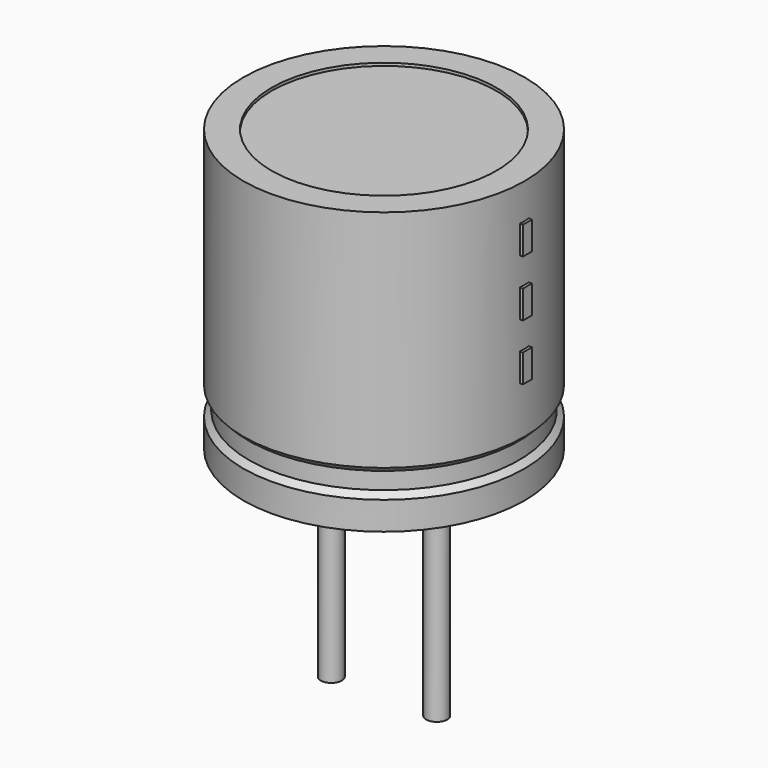
from build123d import *

# Parameters (mm, degrees)
SKETCH002_W  = 1.84
SKETCH002_H  = 3.92
SKETCH003_R  = 0.15
PAD_DEPTH    = 3.4
SKETCH004_W  = 0.16
SKETCH004_H  = 0.4
PAD001_DEPTH = 2.04


with BuildPart() as revolution:
    # Sketch → Revolution (revolve)
    with BuildSketch(Plane.XZ):
        Polygon((-1.25, 0.1), (-1.25, 0.5), (-1.17, 0.58), (-1.17, 0.82), (-1.25, 0.9), (-1.25, 4.1), (-0.85, 4.1), (-0.85, 0.1), align=None)
    revolve(axis=Axis((0.75, 0, 7.548619), (0, 0, -1)))


with BuildPart() as revolution001:
    # Sketch002 → Revolution001 (revolve)
    with BuildSketch(Plane.XZ):
        with Locations((-0.17, 2.1)):
            Rectangle(SKETCH002_W, SKETCH002_H)
    revolve(axis=Axis((0.75, 0, 4.680116), (0, 0, -1)))


with BuildPart() as pad:
    # Sketch003 → Pad (new body)
    with BuildSketch(Plane.XY.offset(0.4)):
        Circle(SKETCH003_R)
        with Locations((1.5, 0)):
            Circle(SKETCH003_R)
    extrude(amount=-PAD_DEPTH)


with BuildPart() as pad001:
    # Sketch004 → Pad001 (new body)
    with BuildSketch(Plane.YZ.offset(0.75)):
        with Locations((0, 1.8)):
            Rectangle(SKETCH004_W, SKETCH004_H)
        with Locations((0, 2.6)):
            Rectangle(SKETCH004_W, SKETCH004_H)
        with Locations((0, 3.4)):
            Rectangle(SKETCH004_W, SKETCH004_H)
    extrude(amount=PAD001_DEPTH)


solid = Compound([revolution.part, revolution001.part, pad.part, pad001.part])
